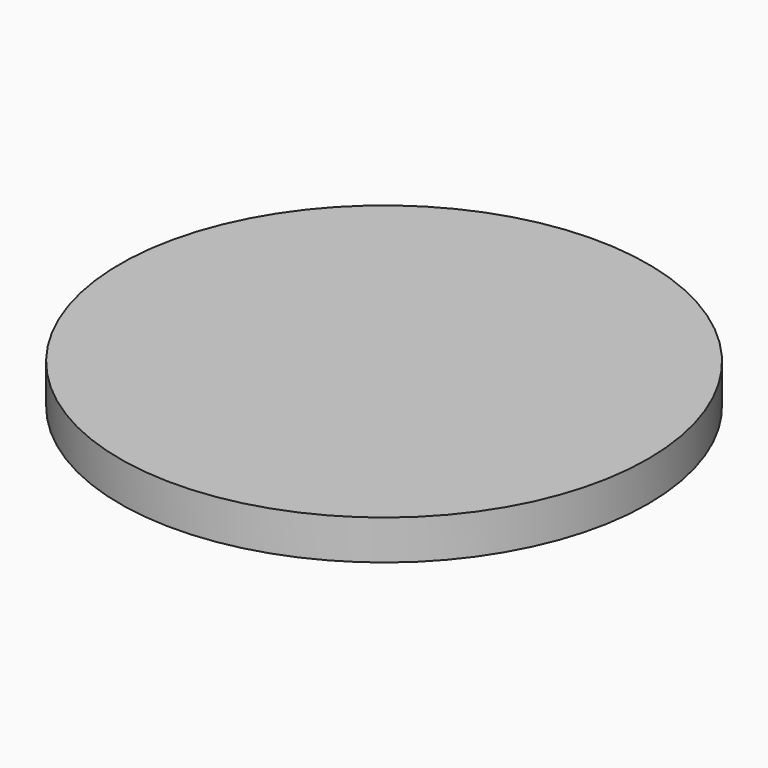
from build123d import *

# Parameters (mm, degrees)
SKETCH_R      = 20
EXTRUDE_DEPTH = 3


with BuildPart() as part:
    # Sketch → Extrude (new body)
    with BuildSketch(Plane.XY):
        Circle(SKETCH_R)
    extrude(amount=EXTRUDE_DEPTH)


solid = part.part
